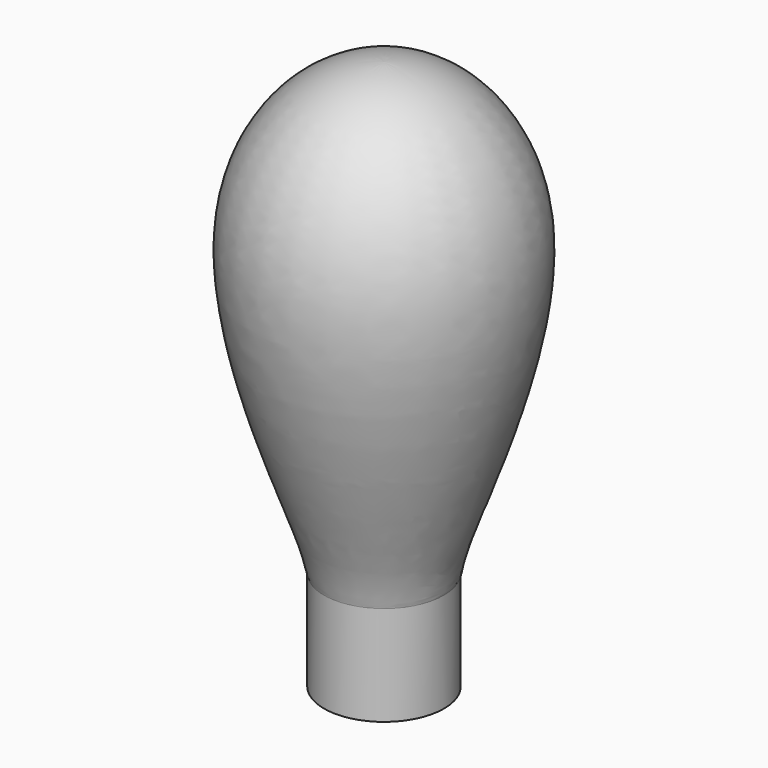
from build123d import *

# Parameters (mm, degrees)
F0_W = 10
F0_H = 16.6265054392


with BuildPart() as f1:
    # F0 (on Front) → F1 (revolve)
    with BuildSketch(Plane.XZ):
        with BuildLine():
            Line((-5, 83.3132527196), (-5, 8.3132527196))
            Line((-5, 8.3132527196), (5, 8.3132527196))
            add(Edge.make_bspline(
                [(-5, 83.3132527196), (6.057672827, 83.2225575915), (27.0749226126, 61.7070649467), (5.5238563739, 14.0058060108), (5.2552695641, 9.0025888738), (5, 8.3132527196)],
                knots=[0, 0, 0, 0, 0.3834818342, 0.8565946169, 1, 1, 1, 1], degree=3))
        make_face()
        Rectangle(F0_W, F0_H)
    revolve(axis=Axis((-5, 0, 45.8132527196), (0, 0, 1)))


solid = f1.part
